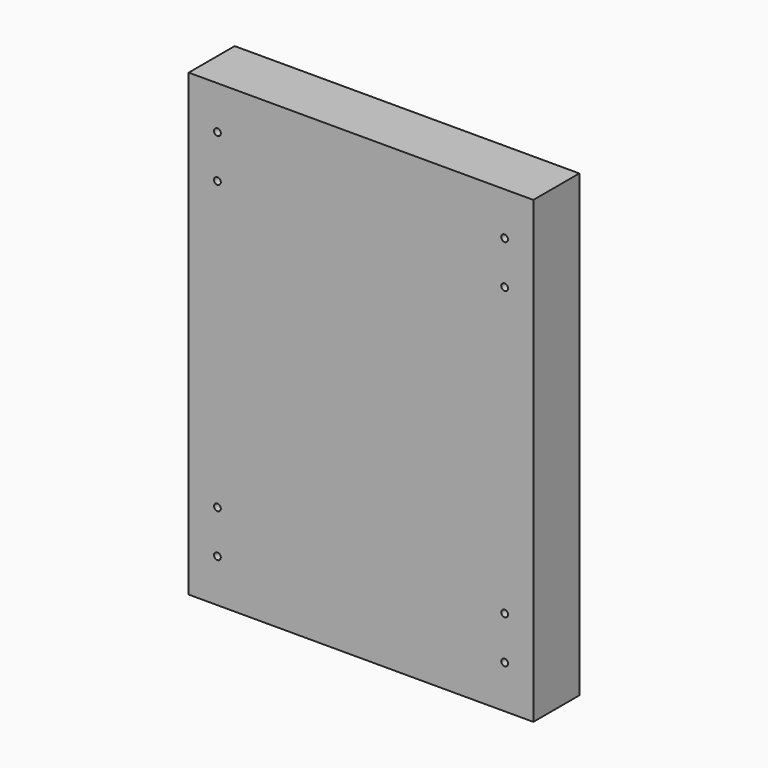
from build123d import *

# Parameters (mm, degrees)
F1_DEPTH = 25.4


with BuildPart() as f1:
    # F0 (on Front) → F1 (new body)
    with BuildSketch(Plane.XZ):
        Polygon((-63.5, 101.6), (-76.2, 101.6), (-76.2, -101.6), (-63.5, -101.6), (63.5, -101.6), (76.2, -101.6), (76.2, 101.6), (63.5, 101.6), align=None)
        with BuildLine():
            ThreePointArc((-62, -82.55), (-62.43934, -83.61066), (-63.5, -84.05))
            ThreePointArc((-63.5, -84.05), (-65, -82.55), (-63.5, -81.05))
            ThreePointArc((-63.5, -81.05), (-62.43934, -81.48934), (-62, -82.55))
        make_face(mode=Mode.SUBTRACT)
        with BuildLine():
            ThreePointArc((-62, -63.5), (-62.43934, -64.56066), (-63.5, -65))
            ThreePointArc((-63.5, -65), (-64.56066, -62.43934), (-62, -63.5))
        make_face(mode=Mode.SUBTRACT)
        with BuildLine():
            ThreePointArc((65, -82.55), (64.56066, -83.61066), (63.5, -84.05))
            ThreePointArc((63.5, -84.05), (62, -82.55), (63.5, -81.05))
            ThreePointArc((63.5, -81.05), (64.56066, -81.48934), (65, -82.55))
        make_face(mode=Mode.SUBTRACT)
        with BuildLine():
            ThreePointArc((65, -63.5), (64.56066, -64.56066), (63.5, -65))
            ThreePointArc((63.5, -65), (62.43934, -62.43934), (65, -63.5))
        make_face(mode=Mode.SUBTRACT)
        with BuildLine():
            ThreePointArc((-62, 63.5), (-64.56066, 62.43934), (-63.5, 65))
            ThreePointArc((-63.5, 65), (-62.43934, 64.56066), (-62, 63.5))
        make_face(mode=Mode.SUBTRACT)
        with BuildLine():
            ThreePointArc((-63.5, 81.05), (-65, 82.55), (-63.5, 84.05))
            ThreePointArc((-63.5, 84.05), (-62.43934, 83.61066), (-62, 82.55))
            ThreePointArc((-62, 82.55), (-62.43934, 81.48934), (-63.5, 81.05))
        make_face(mode=Mode.SUBTRACT)
        with BuildLine():
            ThreePointArc((65, 63.5), (62.43934, 62.43934), (63.5, 65))
            ThreePointArc((63.5, 65), (64.56066, 64.56066), (65, 63.5))
        make_face(mode=Mode.SUBTRACT)
        with BuildLine():
            ThreePointArc((63.5, 81.05), (62, 82.55), (63.5, 84.05))
            ThreePointArc((63.5, 84.05), (64.56066, 83.61066), (65, 82.55))
            ThreePointArc((65, 82.55), (64.56066, 81.48934), (63.5, 81.05))
        make_face(mode=Mode.SUBTRACT)
    extrude(amount=F1_DEPTH)


solid = f1.part
